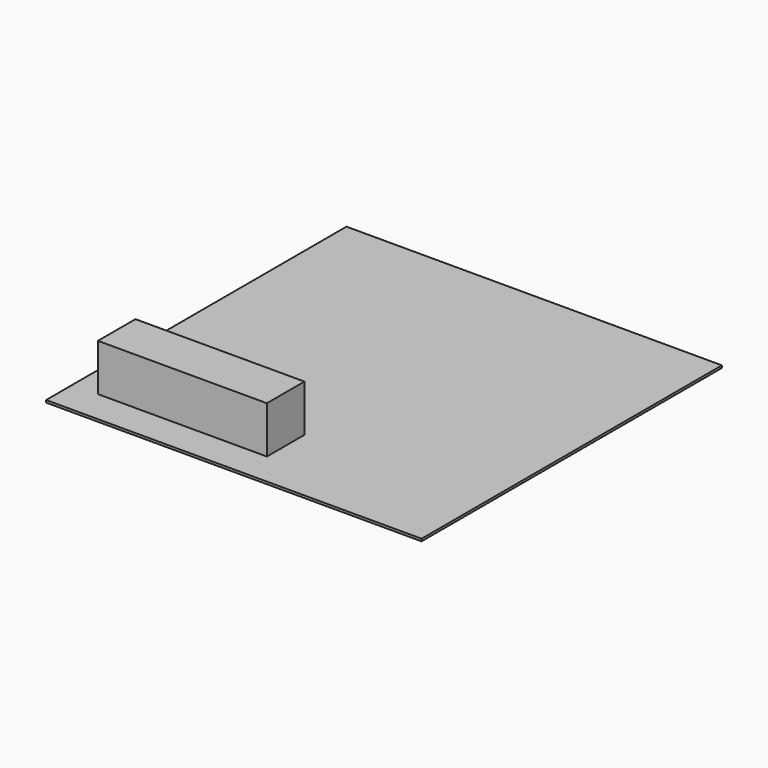
from build123d import *

# Parameters (mm, degrees)
F0_W     = 4000
F0_H     = 4000
F1_DEPTH = 25
F2_W     = 1800
F2_H     = 500
F3_DEPTH = 500


with BuildPart() as f1:
    # F0 (on Top) → F1 (new body)
    with BuildSketch(Plane.XY):
        Rectangle(F0_W, F0_H)
    extrude(amount=F1_DEPTH)


with BuildPart() as f3:
    # F2 (on face) → F3 (new body)
    with BuildSketch(Plane.XY.offset(25)):
        with Locations((-829.321808, -1397.846937)):
            Rectangle(F2_W, F2_H)
    extrude(amount=F3_DEPTH)


solid = Compound([f1.part, f3.part])
